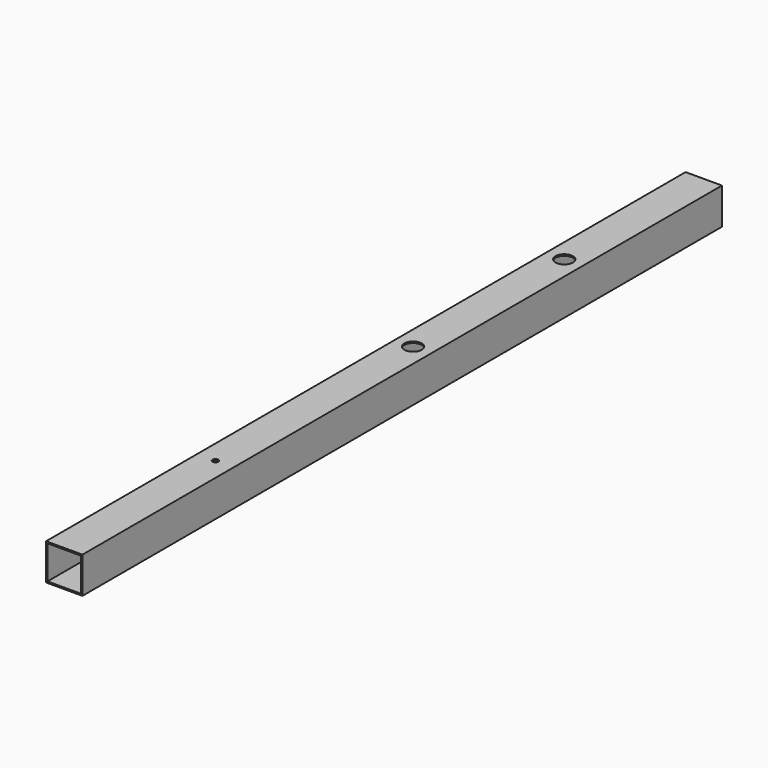
from build123d import *

# Parameters (mm, degrees)
F0_W     = 50
F0_H     = 50
F0_W_2   = 46
F0_H_2   = 46
F1_DEPTH = 1100
F2_R     = 12
F3_DEPTH = 50.001
F4_R     = 10
F5_DEPTH = 50.001
F6_R     = 10
F6_R_2   = 4
F7_DEPTH = 2


with BuildPart() as f1:
    # F0 (on Front) → F1 (new body)
    with BuildSketch(Plane.XZ):
        with Locations((25, 25)):
            Rectangle(F0_W, F0_H)
        with Locations((25, 25)):
            Rectangle(F0_W_2, F0_H_2, mode=Mode.SUBTRACT)
    extrude(amount=F1_DEPTH)

    # F2 (on face) → F3 (cut, through all)
    with BuildSketch(Plane.XY.offset(50)):
        with Locations((25, -500)):
            Circle(F2_R)
        with Locations((25, -240)):
            Circle(F2_R)
    extrude(amount=-F3_DEPTH, mode=Mode.SUBTRACT)

    # F4 (on face) → F5 (cut, through all)
    with BuildSketch(Plane.XY.offset(50)):
        with Locations((25, -840)):
            Circle(F4_R)
    extrude(amount=-F5_DEPTH, mode=Mode.SUBTRACT)

    # F6 (on face) → F7 (join)
    with BuildSketch(Plane.XY.offset(50)):
        with Locations((25, -840)):
            Circle(F6_R)
        with Locations((25, -840)):
            Circle(F6_R_2, mode=Mode.SUBTRACT)
    extrude(amount=-F7_DEPTH)


solid = f1.part
